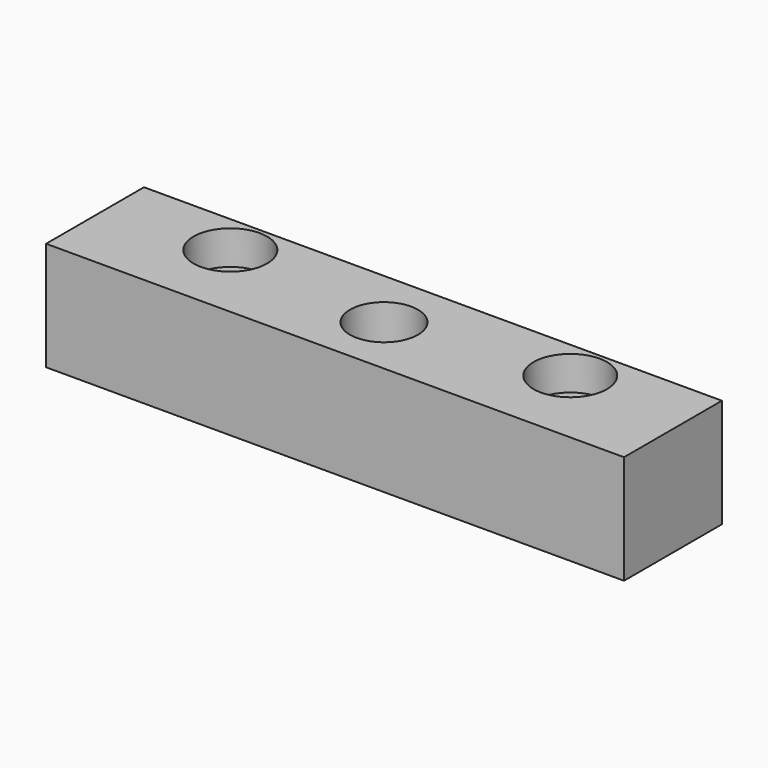
from build123d import *

# Parameters (mm, degrees)
SKETCH_W     = 85
SKETCH_H     = 18
SKETCH_R     = 5
SKETCH_R_2   = 3.2
PAD_DEPTH    = 16
SKETCH001_R  = 5.4
POCKET_DEPTH = 5


with BuildPart() as part:
    # Sketch → Pad (new body)
    with BuildSketch(Plane.XY):
        Rectangle(SKETCH_W, SKETCH_H)
        Circle(SKETCH_R, mode=Mode.SUBTRACT)
        with Locations((-25, 3)):
            Circle(SKETCH_R_2, mode=Mode.SUBTRACT)
        with Locations((25, 3)):
            Circle(SKETCH_R_2, mode=Mode.SUBTRACT)
    extrude(amount=PAD_DEPTH)

    # Sketch001 → Pocket (cut)
    with BuildSketch(Plane.XY.offset(16)):
        with Locations((-25, 3)):
            Circle(SKETCH001_R)
        with Locations((25, 3)):
            Circle(SKETCH001_R)
    extrude(amount=-POCKET_DEPTH, mode=Mode.SUBTRACT)


solid = part.part
